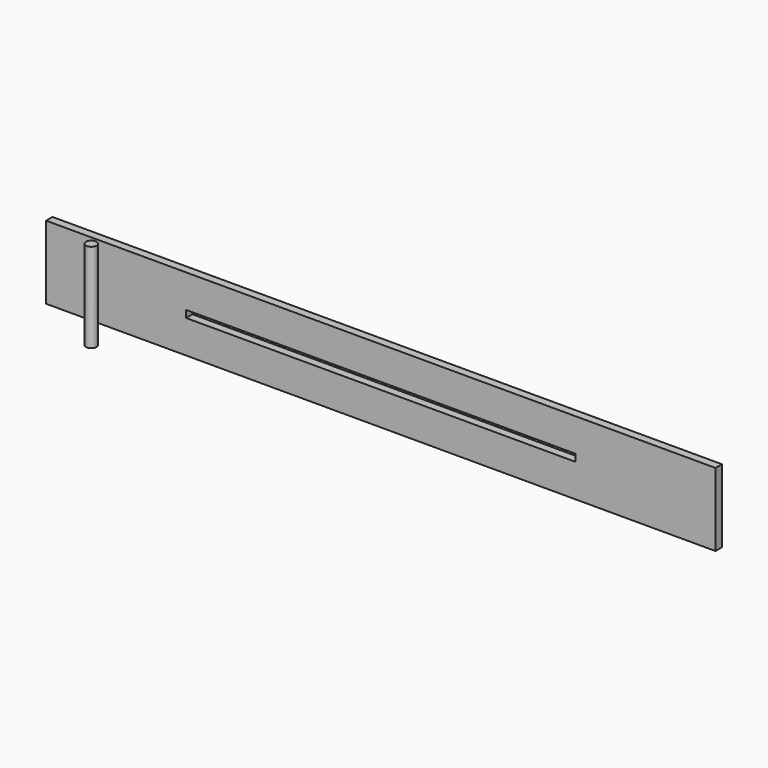
from build123d import *

# Parameters (mm, degrees)
F0_W     = 190.5
F0_H     = 20.828
F0_W_2   = 110.809542
F0_H_2   = 2.032
F1_DEPTH = 2.286
F2_R     = 1.5
F3_DEPTH = 25.4


with BuildPart() as f1:
    # F0 (on Front) → F1 (new body)
    with BuildSketch(Plane.XZ):
        Rectangle(F0_W, F0_H)
        Rectangle(F0_W_2, F0_H_2, mode=Mode.SUBTRACT)
    extrude(amount=F1_DEPTH)


with BuildPart() as f3:
    # F2 (on Top) → F3 (new body)
    with BuildSketch(Plane.XY):
        with Locations((-62.491, -27.160814)):
            Circle(F2_R)
    extrude(amount=F3_DEPTH)


solid = Compound([f1.part, f3.part])
